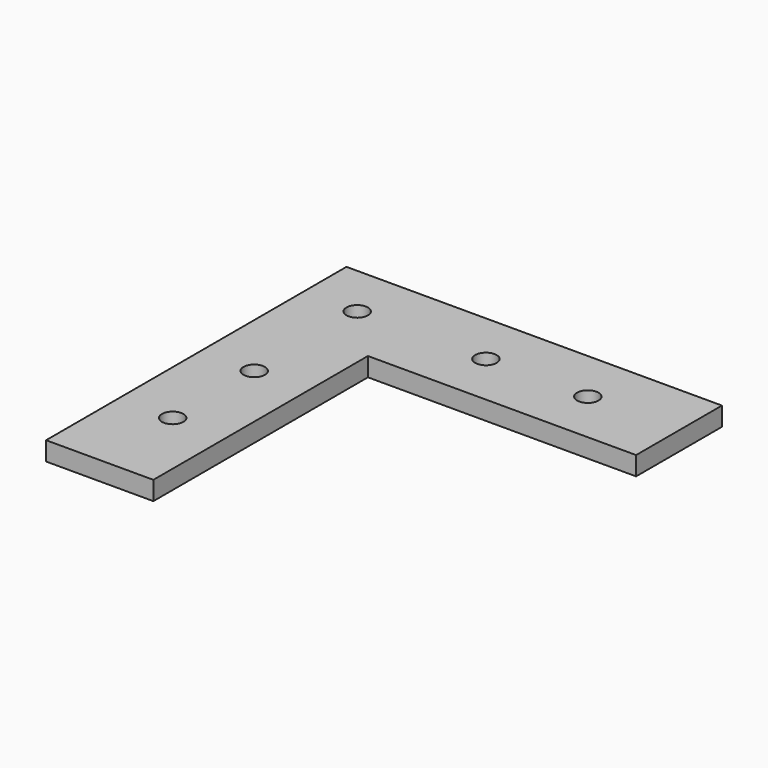
from build123d import *

# Parameters (mm, degrees)
F0_R     = 2
F1_DEPTH = 3.5


with BuildPart() as f1:
    # F0 (on Top) → F1 (new body)
    with BuildSketch(Plane.XY):
        Polygon((-10, -10), (-10, -60), (10, -60), (10, -10), (60, -10), (60, 10), (10, 10), (-10, 10), align=None)
        with Locations((0, -43)):
            Circle(F0_R, mode=Mode.SUBTRACT)
        with Locations((0, -24)):
            Circle(F0_R, mode=Mode.SUBTRACT)
        Circle(F0_R, mode=Mode.SUBTRACT)
        with Locations((24, 0)):
            Circle(F0_R, mode=Mode.SUBTRACT)
        with Locations((43, 0)):
            Circle(F0_R, mode=Mode.SUBTRACT)
    extrude(amount=F1_DEPTH)


solid = f1.part
